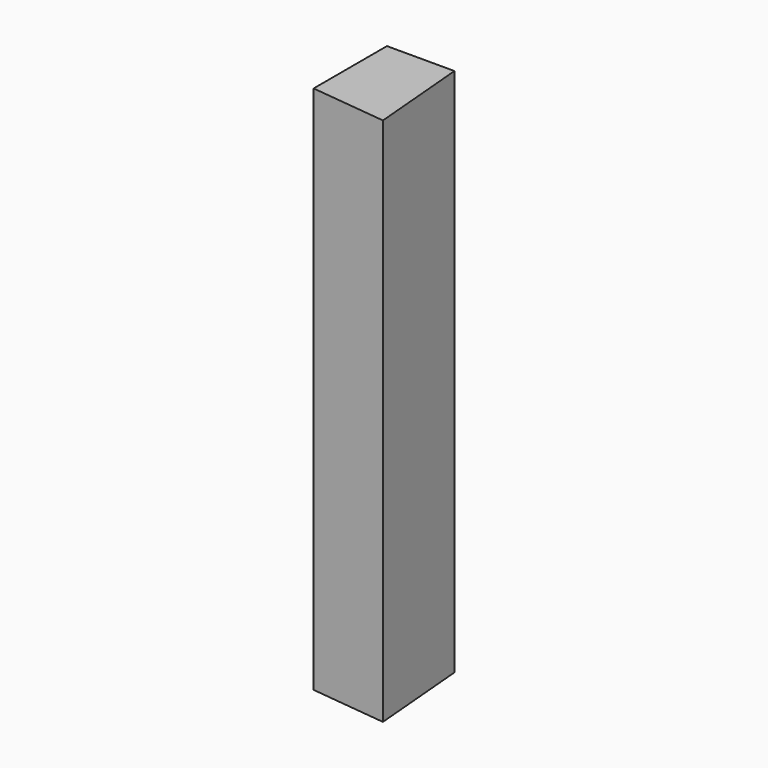
from build123d import *

# Parameters (mm, degrees)
F1_DEPTH = 25.4
F2_DEPTH = 233.172
F3_T     = -2.54


with BuildPart() as f1:
    # F0 (on Top) → F1 (new body)
    with BuildSketch(Plane.XY):
        Polygon((-96.244343, 37.27863), (-129.184976, 37.27863), (-129.184976, -7.511258), (-92.015967, -11.636118), align=None)
    extrude(amount=F1_DEPTH)

    # F0 (on Top) → F2 (join)
    with BuildSketch(Plane.XY):
        Polygon((-96.244343, 37.27863), (-129.184976, 37.27863), (-129.184976, -7.511258), (-92.015967, -11.636118), align=None)
    extrude(amount=-F2_DEPTH)

    # F3
    f3_openings = [f1.faces().sort_by_distance(p)[0] for p in [
        (-111.394879, 13.386796, -233.172),
    ]]
    offset(amount=F3_T, openings=f3_openings)


solid = f1.part
